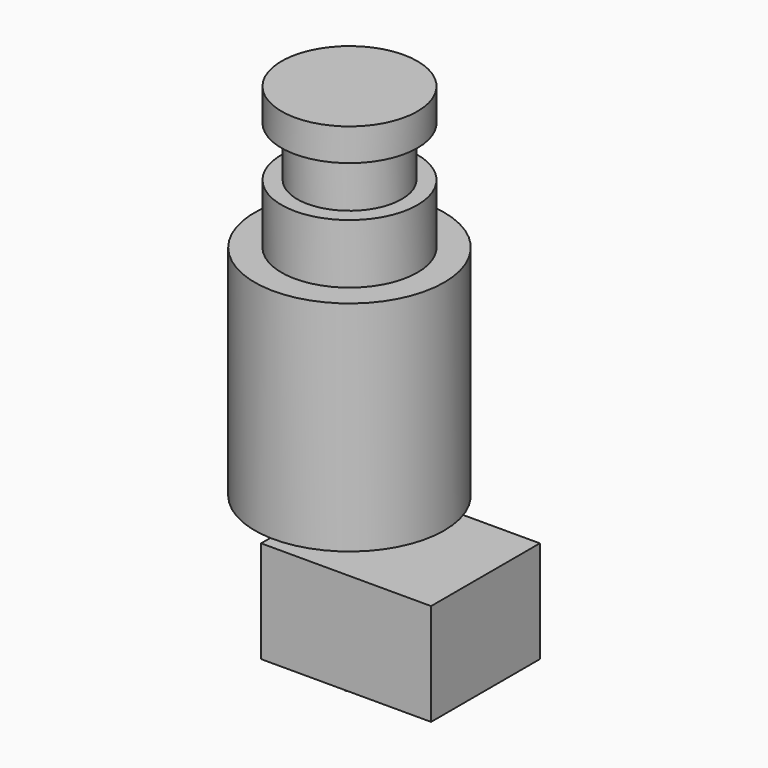
from build123d import *

# Parameters (mm, degrees)
F0_R      = 8
F1_DEPTH  = 3.8
F2_R      = 6.15
F3_DEPTH  = 5.9
F4_R      = 8
F5_DEPTH  = 7
F6_R      = 11.15
F7_DEPTH  = 25.7
F8_R      = 2.5
F9_DEPTH  = 3
F10_W     = 20
F10_H     = 16
F10_R     = 2.5
F11_DEPTH = 12
F13_DEPTH = 5
F14_SIZE  = 3


with BuildPart() as f1:
    # F0 (on Top) → F1 (new body)
    with BuildSketch(Plane.XY):
        Circle(F0_R)
    extrude(amount=-F1_DEPTH)

    # F2 (on face) → F3 (join)
    with BuildSketch(Plane(origin=(0, 0, -3.8), x_dir=(1, 0, 0), z_dir=(0, 0, -1))):
        Circle(F2_R)
    extrude(amount=F3_DEPTH)

    # F4 (on face) → F5 (join)
    with BuildSketch(Plane(origin=(0, 0, -9.7), x_dir=(1, 0, 0), z_dir=(0, 0, -1))):
        Circle(F4_R)
    extrude(amount=F5_DEPTH)

    # F6 (on face) → F7 (join)
    with BuildSketch(Plane(origin=(0, 0, -16.7), x_dir=(1, 0, 0), z_dir=(0, 0, -1))):
        Circle(F6_R)
    extrude(amount=F7_DEPTH)

    # F8 (on face) → F9 (join)
    with BuildSketch(Plane(origin=(0, 0, -42.4), x_dir=(1, 0, 0), z_dir=(0, 0, -1))):
        Circle(F8_R)
    extrude(amount=F9_DEPTH)

    # F10 (on face) → F11 (join)
    with BuildSketch(Plane(origin=(0, 0, -45.4), x_dir=(1, 0, 0), z_dir=(0, 0, -1))):
        with Locations((6, 0)):
            Rectangle(F10_W, F10_H)
        Circle(F10_R, mode=Mode.SUBTRACT)
        Circle(F10_R)
    extrude(amount=F11_DEPTH)

    # F12 (on face) → F13 (join)
    with BuildSketch(Plane(origin=(0, 0, -57.4), x_dir=(1, 0, 0), z_dir=(0, 0, -1))):
        Polygon((0, -4.041452), (3.5, -2.020726), (3.5, 2.020726), (0, 4.041452), (-3.5, 2.020726), (-3.5, -2.020726), align=None)
    extrude(amount=F13_DEPTH)

    # F14
    f14_edges = [f1.edges().sort_by_distance(p)[0] for p in [
        (3.5, 0, -62.4),
        (1.75, -3.031089, -62.4),
        (-1.75, -3.031089, -62.4),
        (-3.5, 0, -62.4),
        (1.75, 3.031089, -62.4),
        (-1.75, 3.031089, -62.4),
    ]]
    chamfer(f14_edges, length=F14_SIZE)


solid = f1.part
